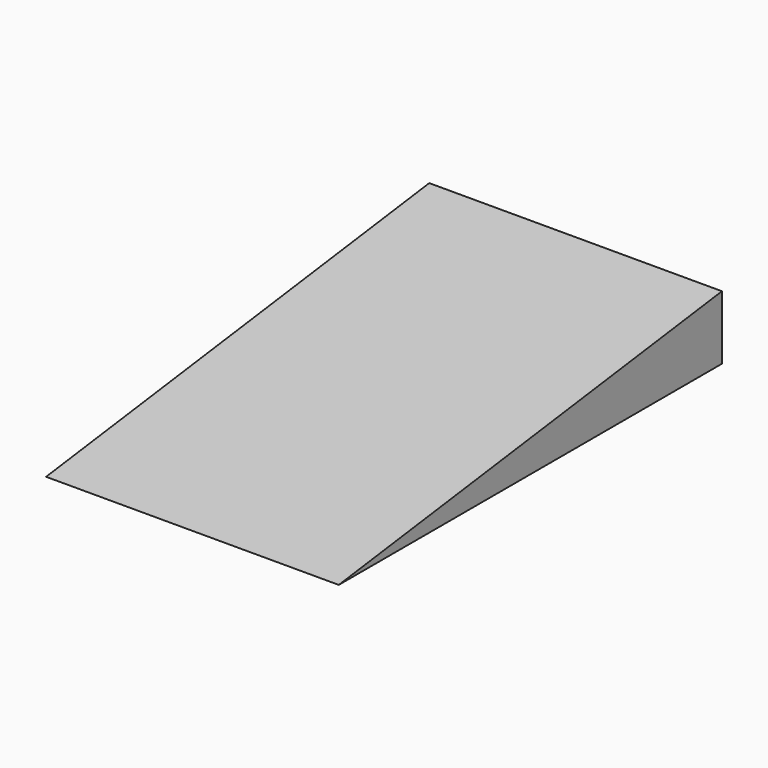
from build123d import *

# Parameters (mm, degrees)
PAD_DEPTH = 27.5


with BuildPart() as part:
    # Sketch → Pad (new body, symmetric)
    with BuildSketch(Plane.YZ):
        Polygon((-45, 0), (45, 0), (45, 12), align=None)
    extrude(amount=PAD_DEPTH, both=True)


solid = part.part
